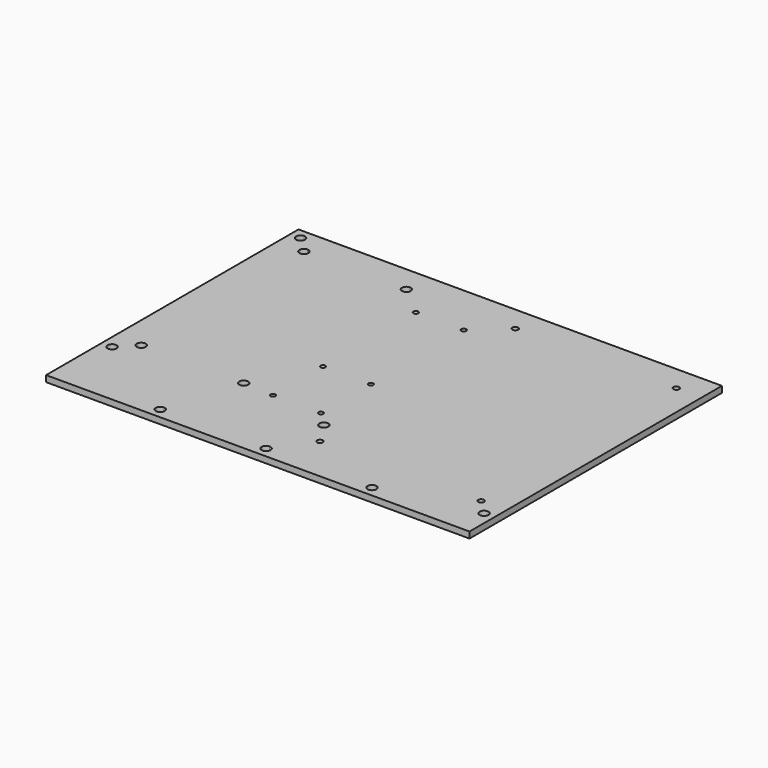
from build123d import *

# Parameters (mm, degrees)
F0_R     = 2.15
F0_W     = 45.05
F0_H     = 10
F0_W_2   = 15
F1_DEPTH = 3


with BuildPart() as f1:
    # F0 (on Top) → F1 (new body)
    with BuildSketch(Plane.XY):
        Polygon((-27.3440142274, -12.256315279), (-74.3440142274, -12.256315279), (-74.3440142274, -15.056315279), (-74.3440142274, -112.906315279), (-74.3440142274, -115.756315279), (-64.3440142274, -115.756315279), (-64.3440142274, -113.806315279), (-64.3440142274, -83.706315279), (-64.3440142274, -81.756315279), (-62.3940142274, -81.756315279), (-57.3440142274, -81.756315279), (-57.3440142274, -71.756315279), (-42.3440142274, -71.756315279), (-42.3440142274, -81.756315279), (-39.2940142274, -81.756315279), (-37.3440142274, -81.756315279), (-37.3440142274, -83.706315279), (-37.3440142274, -113.806315279), (-37.3440142274, -115.756315279), (-27.3440142274, -115.756315279), (-27.3440142274, -14.456315279), align=None)
        Polygon((-62.5940142274, -61.756315279), (-64.3440142274, -61.756315279), (-64.3440142274, -60.006315279), (-64.3440142274, -27.456315279), (-64.3440142274, -25.756315279), (-62.6440142274, -25.756315279), (-39.5440142274, -25.756315279), (-37.8440142274, -25.756315279), (-37.8440142274, -27.456315279), (-37.8440142274, -60.006315279), (-37.8440142274, -61.756315279), (-39.5940142274, -61.756315279), align=None, mode=Mode.SUBTRACT)
        with BuildLine():
            Line((-32.3440142274, -122.906315279), (-32.3440142274, -125.756315279))
            Line((-32.3440142274, -125.756315279), (-27.3440142274, -125.756315279))
            Line((-27.3440142274, -125.756315279), (-27.3440142274, -115.756315279))
            Line((-27.3440142274, -115.756315279), (-37.3440142274, -115.756315279))
            Line((-37.3440142274, -115.756315279), (-37.3440142274, -120.756315279))
            Line((-37.3440142274, -120.756315279), (-34.4940142274, -120.756315279))
            ThreePointArc((-34.4940142274, -120.756315279), (-32.3440142274, -118.606315279), (-30.1940142274, -120.756315279))
            ThreePointArc((-30.1940142274, -120.756315279), (-30.8237346478, -122.2765948586), (-32.3440142274, -122.906315279))
        make_face()
        Polygon((-126.5440142274, -115.756315279), (-129.3440142274, -115.756315279), (-129.3440142274, -125.756315279), (-37.3440142274, -125.756315279), (-37.3440142274, -120.756315279), (-37.3440142274, -115.756315279), (-39.2940142274, -115.756315279), (-62.3940142274, -115.756315279), (-64.3440142274, -115.756315279), (-74.3440142274, -115.756315279), (-77.1940142274, -115.756315279), align=None)
        with BuildLine():
            Line((-129.3440142274, -115.756315279), (-139.3440142274, -115.756315279))
            Line((-139.3440142274, -115.756315279), (-139.3440142274, -120.756315279))
            Line((-139.3440142274, -120.756315279), (-136.4940142274, -120.756315279))
            ThreePointArc((-136.4940142274, -120.756315279), (-134.3440142274, -118.606315279), (-132.1940142274, -120.756315279))
            ThreePointArc((-132.1940142274, -120.756315279), (-132.8237346478, -122.2765948586), (-134.3440142274, -122.906315279))
            Line((-134.3440142274, -122.906315279), (-134.3440142274, -125.756315279))
            Line((-134.3440142274, -125.756315279), (-129.3440142274, -125.756315279))
            Line((-129.3440142274, -125.756315279), (-129.3440142274, -115.756315279))
        make_face()
        Polygon((-129.3440142274, -12.256315279), (-139.3440142274, -12.256315279), (-139.3440142274, -115.756315279), (-129.3440142274, -115.756315279), (-129.3440142274, -112.956315279), (-129.3440142274, -15.056315279), align=None)
        with BuildLine():
            Line((-134.3440142274, -2.256315279), (-139.3440142274, -2.256315279))
            Line((-139.3440142274, -2.256315279), (-139.3440142274, -7.256315279))
            Line((-139.3440142274, -7.256315279), (-136.4940142274, -7.256315279))
            ThreePointArc((-136.4940142274, -7.256315279), (-135.8642938069, -5.7360356995), (-134.3440142274, -5.106315279))
            Line((-134.3440142274, -5.106315279), (-134.3440142274, -2.256315279))
        make_face()
        with BuildLine():
            Line((-129.3440142274, -2.256315279), (-134.3440142274, -2.256315279))
            Line((-134.3440142274, -2.256315279), (-134.3440142274, -5.106315279))
            ThreePointArc((-134.3440142274, -5.106315279), (-132.8237346478, -5.7360356995), (-132.1940142274, -7.256315279))
            ThreePointArc((-132.1940142274, -7.256315279), (-134.3440142274, -9.406315279), (-136.4940142274, -7.256315279))
            Line((-136.4940142274, -7.256315279), (-139.3440142274, -7.256315279))
            Line((-139.3440142274, -7.256315279), (-139.3440142274, -12.256315279))
            Line((-139.3440142274, -12.256315279), (-129.3440142274, -12.256315279))
            Line((-129.3440142274, -12.256315279), (-129.3440142274, -2.256315279))
        make_face()
        Polygon((-124.3940142274, -2.256315279), (-129.3440142274, -2.256315279), (-129.3440142274, -12.256315279), (-126.5440142274, -12.256315279), (-124.3940142274, -12.256315279), align=None)
        Polygon((-27.3440142274, -134.256315279), (-27.3440142274, -144.256315279), (13.6559857726, -144.256315279), (34.6559857726, -144.256315279), (34.6559857726, -134.256315279), (-25.1440142274, -134.256315279), align=None)
        with BuildLine():
            Line((64.6559857726, -2.256315279), (-79.3440142274, -2.256315279))
            Line((-79.3440142274, -2.256315279), (-79.3440142274, -12.256315279))
            Line((-79.3440142274, -12.256315279), (-77.1440142274, -12.256315279))
            Line((-77.1440142274, -12.256315279), (-74.3440142274, -12.256315279))
            Line((-74.3440142274, -12.256315279), (-27.3440142274, -12.256315279))
            Line((-27.3440142274, -12.256315279), (-25.1440142274, -12.256315279))
            Line((-25.1440142274, -12.256315279), (52.4559857726, -12.256315279))
            Line((52.4559857726, -12.256315279), (54.6559857726, -12.256315279))
            Line((54.6559857726, -12.256315279), (54.6559857726, -14.456315279))
            Line((54.6559857726, -14.456315279), (54.6559857726, -132.056315279))
            Line((54.6559857726, -132.056315279), (54.6559857726, -134.256315279))
            Line((54.6559857726, -134.256315279), (54.6559857726, -144.256315279))
            Line((54.6559857726, -144.256315279), (59.6559857726, -144.256315279))
            Line((59.6559857726, -144.256315279), (59.6559857726, -141.406315279))
            ThreePointArc((59.6559857726, -141.406315279), (58.1357061931, -137.7360356995), (61.8059857726, -139.256315279))
            Line((61.8059857726, -139.256315279), (64.6559857726, -139.256315279))
            Line((64.6559857726, -139.256315279), (64.6559857726, -2.256315279))
        make_face()
        with BuildLine():
            Line((64.6559857726, -2.256315279), (-79.3440142274, -2.256315279))
            Line((-79.3440142274, -2.256315279), (-79.3440142274, -12.256315279))
            Line((-79.3440142274, -12.256315279), (-77.1440142274, -12.256315279))
            Line((-77.1440142274, -12.256315279), (-74.3440142274, -12.256315279))
            Line((-74.3440142274, -12.256315279), (-27.3440142274, -12.256315279))
            Line((-27.3440142274, -12.256315279), (-25.1440142274, -12.256315279))
            Line((-25.1440142274, -12.256315279), (52.4559857726, -12.256315279))
            Line((52.4559857726, -12.256315279), (54.6559857726, -12.256315279))
            Line((54.6559857726, -12.256315279), (54.6559857726, -14.456315279))
            Line((54.6559857726, -14.456315279), (54.6559857726, -132.056315279))
            Line((54.6559857726, -132.056315279), (54.6559857726, -134.256315279))
            Line((54.6559857726, -134.256315279), (54.6559857726, -144.256315279))
            Line((54.6559857726, -144.256315279), (59.6559857726, -144.256315279))
            Line((59.6559857726, -144.256315279), (59.6559857726, -141.406315279))
            ThreePointArc((59.6559857726, -141.406315279), (58.1357061931, -137.7360356995), (61.8059857726, -139.256315279))
            Line((61.8059857726, -139.256315279), (64.6559857726, -139.256315279))
            Line((64.6559857726, -139.256315279), (64.6559857726, -2.256315279))
        make_face()
        Polygon((-88.3440142274, -144.256315279), (-139.3440142274, -144.256315279), (-139.3440142274, -149.256315279), (-139.3440142274, -154.256315279), (64.6559857726, -154.256315279), (64.6559857726, -144.256315279), (59.6559857726, -144.256315279), (54.6559857726, -144.256315279), (34.6559857726, -144.256315279), (13.6559857726, -144.256315279), (-27.3440142274, -144.256315279), (-37.3440142274, -144.256315279), align=None)
        with BuildLine():
            ThreePointArc((-86.1940142274, -149.256315279), (-89.8642938069, -150.7765948586), (-88.3440142274, -147.106315279))
            ThreePointArc((-88.3440142274, -147.106315279), (-86.8237346478, -147.7360356995), (-86.1940142274, -149.256315279))
        make_face(mode=Mode.SUBTRACT)
        with BuildLine():
            ThreePointArc((-35.1940142274, -149.256315279), (-38.8642938069, -150.7765948586), (-37.3440142274, -147.106315279))
            ThreePointArc((-37.3440142274, -147.106315279), (-35.8237346478, -147.7360356995), (-35.1940142274, -149.256315279))
        make_face(mode=Mode.SUBTRACT)
        with Locations((13.6559857726, -149.256315279)):
            Circle(F0_R, mode=Mode.SUBTRACT)
        with BuildLine():
            Line((-79.3440142274, -12.256315279), (-124.3940142274, -12.256315279))
            Line((-124.3940142274, -12.256315279), (-126.5440142274, -12.256315279))
            Line((-126.5440142274, -12.256315279), (-126.5440142274, -12.906315279))
            ThreePointArc((-126.5440142274, -12.906315279), (-125.0237346478, -13.5360356995), (-124.3940142274, -15.056315279))
            ThreePointArc((-124.3940142274, -15.056315279), (-126.5440142274, -17.206315279), (-128.6940142274, -15.056315279))
            Line((-128.6940142274, -15.056315279), (-129.3440142274, -15.056315279))
            Line((-129.3440142274, -15.056315279), (-129.3440142274, -112.956315279))
            Line((-129.3440142274, -112.956315279), (-128.6940142274, -112.956315279))
            ThreePointArc((-128.6940142274, -112.956315279), (-126.5440142274, -110.806315279), (-124.3940142274, -112.956315279))
            ThreePointArc((-124.3940142274, -112.956315279), (-125.0237346478, -114.4765948586), (-126.5440142274, -115.106315279))
            Line((-126.5440142274, -115.106315279), (-126.5440142274, -115.756315279))
            Line((-126.5440142274, -115.756315279), (-77.1940142274, -115.756315279))
            Line((-77.1940142274, -115.756315279), (-77.1940142274, -115.056315279))
            ThreePointArc((-77.1940142274, -115.056315279), (-78.7142938069, -111.3860356995), (-75.0440142274, -112.906315279))
            Line((-75.0440142274, -112.906315279), (-74.3440142274, -112.906315279))
            Line((-74.3440142274, -112.906315279), (-74.3440142274, -15.056315279))
            Line((-74.3440142274, -15.056315279), (-74.9940142274, -15.056315279))
            ThreePointArc((-74.9940142274, -15.056315279), (-78.6642938069, -16.5765948586), (-77.1440142274, -12.906315279))
            Line((-77.1440142274, -12.906315279), (-77.1440142274, -12.256315279))
            Line((-77.1440142274, -12.256315279), (-79.3440142274, -12.256315279))
        make_face()
        with Locations((-101.8690142274, -7.256315279)):
            Rectangle(F0_W, F0_H)
        with BuildLine():
            Line((-62.3940142274, -114.956315279), (-62.3940142274, -115.756315279))
            Line((-62.3940142274, -115.756315279), (-39.2940142274, -115.756315279))
            Line((-39.2940142274, -115.756315279), (-39.2940142274, -114.956315279))
            ThreePointArc((-39.2940142274, -114.956315279), (-40.1071870258, -112.9931424806), (-38.1440142274, -113.806315279))
            Line((-38.1440142274, -113.806315279), (-37.3440142274, -113.806315279))
            Line((-37.3440142274, -113.806315279), (-37.3440142274, -83.706315279))
            Line((-37.3440142274, -83.706315279), (-38.1440142274, -83.706315279))
            ThreePointArc((-38.1440142274, -83.706315279), (-40.1071870258, -84.5194880774), (-39.2940142274, -82.556315279))
            Line((-39.2940142274, -82.556315279), (-39.2940142274, -81.756315279))
            Line((-39.2940142274, -81.756315279), (-42.3440142274, -81.756315279))
            Line((-42.3440142274, -81.756315279), (-57.3440142274, -81.756315279))
            Line((-57.3440142274, -81.756315279), (-62.3940142274, -81.756315279))
            Line((-62.3940142274, -81.756315279), (-62.3940142274, -82.556315279))
            ThreePointArc((-62.3940142274, -82.556315279), (-61.580841429, -82.8931424806), (-61.2440142274, -83.706315279))
            ThreePointArc((-61.2440142274, -83.706315279), (-62.3940142274, -84.856315279), (-63.5440142274, -83.706315279))
            Line((-63.5440142274, -83.706315279), (-64.3440142274, -83.706315279))
            Line((-64.3440142274, -83.706315279), (-64.3440142274, -113.806315279))
            Line((-64.3440142274, -113.806315279), (-63.5440142274, -113.806315279))
            ThreePointArc((-63.5440142274, -113.806315279), (-62.3940142274, -112.656315279), (-61.2440142274, -113.806315279))
            ThreePointArc((-61.2440142274, -113.806315279), (-61.580841429, -114.6194880774), (-62.3940142274, -114.956315279))
        make_face()
        with BuildLine():
            Line((-64.3440142274, -60.006315279), (-64.3440142274, -61.756315279))
            Line((-64.3440142274, -61.756315279), (-62.5940142274, -61.756315279))
            Line((-62.5940142274, -61.756315279), (-39.5940142274, -61.756315279))
            Line((-39.5940142274, -61.756315279), (-37.8440142274, -61.756315279))
            Line((-37.8440142274, -61.756315279), (-37.8440142274, -60.006315279))
            Line((-37.8440142274, -60.006315279), (-37.8440142274, -27.456315279))
            Line((-37.8440142274, -27.456315279), (-38.3440142274, -27.456315279))
            ThreePointArc((-38.3440142274, -27.456315279), (-40.3925423648, -28.3048434164), (-39.5440142274, -26.256315279))
            Line((-39.5440142274, -26.256315279), (-39.5440142274, -25.756315279))
            Line((-39.5440142274, -25.756315279), (-62.6440142274, -25.756315279))
            Line((-62.6440142274, -25.756315279), (-62.6440142274, -26.256315279))
            ThreePointArc((-62.6440142274, -26.256315279), (-61.79548609, -26.6077871416), (-61.4440142274, -27.456315279))
            ThreePointArc((-61.4440142274, -27.456315279), (-62.6440142274, -28.656315279), (-63.8440142274, -27.456315279))
            Line((-63.8440142274, -27.456315279), (-64.3440142274, -27.456315279))
            Line((-64.3440142274, -27.456315279), (-64.3440142274, -60.006315279))
        make_face()
        Polygon((34.6559857726, -144.256315279), (54.6559857726, -144.256315279), (54.6559857726, -134.256315279), (52.4559857726, -134.256315279), (34.6559857726, -134.256315279), align=None)
        Polygon((-27.3440142274, -134.256315279), (-27.3440142274, -144.256315279), (13.6559857726, -144.256315279), (34.6559857726, -144.256315279), (34.6559857726, -134.256315279), (-25.1440142274, -134.256315279), align=None)
        Polygon((34.6559857726, -144.256315279), (54.6559857726, -144.256315279), (54.6559857726, -134.256315279), (52.4559857726, -134.256315279), (34.6559857726, -134.256315279), align=None)
        with BuildLine():
            Line((-129.3440142274, -112.956315279), (-129.3440142274, -115.756315279))
            Line((-129.3440142274, -115.756315279), (-126.5440142274, -115.756315279))
            Line((-126.5440142274, -115.756315279), (-126.5440142274, -115.106315279))
            ThreePointArc((-126.5440142274, -115.106315279), (-128.0642938069, -114.4765948586), (-128.6940142274, -112.956315279))
            Line((-128.6940142274, -112.956315279), (-129.3440142274, -112.956315279))
        make_face()
        with BuildLine():
            Line((-64.3440142274, -113.806315279), (-64.3440142274, -115.756315279))
            Line((-64.3440142274, -115.756315279), (-62.3940142274, -115.756315279))
            Line((-62.3940142274, -115.756315279), (-62.3940142274, -114.956315279))
            ThreePointArc((-62.3940142274, -114.956315279), (-63.2071870258, -114.6194880774), (-63.5440142274, -113.806315279))
            Line((-63.5440142274, -113.806315279), (-64.3440142274, -113.806315279))
        make_face()
        with BuildLine():
            Line((-77.1940142274, -115.056315279), (-77.1940142274, -115.756315279))
            Line((-77.1940142274, -115.756315279), (-74.3440142274, -115.756315279))
            Line((-74.3440142274, -115.756315279), (-74.3440142274, -112.906315279))
            Line((-74.3440142274, -112.906315279), (-75.0440142274, -112.906315279))
            ThreePointArc((-75.0440142274, -112.906315279), (-75.6737346478, -114.4265948586), (-77.1940142274, -115.056315279))
        make_face()
        with Locations((-49.8440142274, -76.756315279)):
            Rectangle(F0_W_2, F0_H)
        with BuildLine():
            Line((-64.3440142274, -81.756315279), (-64.3440142274, -83.706315279))
            Line((-64.3440142274, -83.706315279), (-63.5440142274, -83.706315279))
            ThreePointArc((-63.5440142274, -83.706315279), (-63.2071870258, -82.8931424806), (-62.3940142274, -82.556315279))
            Line((-62.3940142274, -82.556315279), (-62.3940142274, -81.756315279))
            Line((-62.3940142274, -81.756315279), (-64.3440142274, -81.756315279))
        make_face()
        with BuildLine():
            Line((-38.1440142274, -83.706315279), (-37.3440142274, -83.706315279))
            Line((-37.3440142274, -83.706315279), (-37.3440142274, -81.756315279))
            Line((-37.3440142274, -81.756315279), (-39.2940142274, -81.756315279))
            Line((-39.2940142274, -81.756315279), (-39.2940142274, -82.556315279))
            ThreePointArc((-39.2940142274, -82.556315279), (-38.480841429, -82.8931424806), (-38.1440142274, -83.706315279))
        make_face()
        with BuildLine():
            Line((-39.2940142274, -115.756315279), (-37.3440142274, -115.756315279))
            Line((-37.3440142274, -115.756315279), (-37.3440142274, -113.806315279))
            Line((-37.3440142274, -113.806315279), (-38.1440142274, -113.806315279))
            ThreePointArc((-38.1440142274, -113.806315279), (-38.480841429, -114.6194880774), (-39.2940142274, -114.956315279))
            Line((-39.2940142274, -114.956315279), (-39.2940142274, -115.756315279))
        make_face()
        with BuildLine():
            Line((-74.3440142274, -12.256315279), (-77.1440142274, -12.256315279))
            Line((-77.1440142274, -12.256315279), (-77.1440142274, -12.906315279))
            ThreePointArc((-77.1440142274, -12.906315279), (-75.6237346478, -13.5360356995), (-74.9940142274, -15.056315279))
            Line((-74.9940142274, -15.056315279), (-74.3440142274, -15.056315279))
            Line((-74.3440142274, -15.056315279), (-74.3440142274, -12.256315279))
        make_face()
        with BuildLine():
            Line((-126.5440142274, -12.256315279), (-129.3440142274, -12.256315279))
            Line((-129.3440142274, -12.256315279), (-129.3440142274, -15.056315279))
            Line((-129.3440142274, -15.056315279), (-128.6940142274, -15.056315279))
            ThreePointArc((-128.6940142274, -15.056315279), (-128.0642938069, -13.5360356995), (-126.5440142274, -12.906315279))
            Line((-126.5440142274, -12.906315279), (-126.5440142274, -12.256315279))
        make_face()
        with BuildLine():
            Line((-64.3440142274, -25.756315279), (-64.3440142274, -27.456315279))
            Line((-64.3440142274, -27.456315279), (-63.8440142274, -27.456315279))
            ThreePointArc((-63.8440142274, -27.456315279), (-63.4925423648, -26.6077871416), (-62.6440142274, -26.256315279))
            Line((-62.6440142274, -26.256315279), (-62.6440142274, -25.756315279))
            Line((-62.6440142274, -25.756315279), (-64.3440142274, -25.756315279))
        make_face()
        with BuildLine():
            Line((-38.3440142274, -27.456315279), (-37.8440142274, -27.456315279))
            Line((-37.8440142274, -27.456315279), (-37.8440142274, -25.756315279))
            Line((-37.8440142274, -25.756315279), (-39.5440142274, -25.756315279))
            Line((-39.5440142274, -25.756315279), (-39.5440142274, -26.256315279))
            ThreePointArc((-39.5440142274, -26.256315279), (-38.69548609, -26.6077871416), (-38.3440142274, -27.456315279))
        make_face()
        with BuildLine():
            Line((54.6559857726, -12.256315279), (52.4559857726, -12.256315279))
            Line((52.4559857726, -12.256315279), (52.4559857726, -13.056315279))
            ThreePointArc((52.4559857726, -13.056315279), (53.4459352663, -13.4663657853), (53.8559857726, -14.456315279))
            Line((53.8559857726, -14.456315279), (54.6559857726, -14.456315279))
            Line((54.6559857726, -14.456315279), (54.6559857726, -12.256315279))
        make_face()
        with BuildLine():
            Line((-25.1440142274, -12.256315279), (-27.3440142274, -12.256315279))
            Line((-27.3440142274, -12.256315279), (-27.3440142274, -14.456315279))
            Line((-27.3440142274, -14.456315279), (-26.5440142274, -14.456315279))
            ThreePointArc((-26.5440142274, -14.456315279), (-26.1339637211, -13.4663657853), (-25.1440142274, -13.056315279))
            Line((-25.1440142274, -13.056315279), (-25.1440142274, -12.256315279))
        make_face()
        with BuildLine():
            Line((-26.5440142274, -132.056315279), (-27.3440142274, -132.056315279))
            Line((-27.3440142274, -132.056315279), (-27.3440142274, -134.256315279))
            Line((-27.3440142274, -134.256315279), (-25.1440142274, -134.256315279))
            Line((-25.1440142274, -134.256315279), (-25.1440142274, -133.456315279))
            ThreePointArc((-25.1440142274, -133.456315279), (-26.1339637211, -133.0462647727), (-26.5440142274, -132.056315279))
        make_face()
        with BuildLine():
            Line((52.4559857726, -134.256315279), (54.6559857726, -134.256315279))
            Line((54.6559857726, -134.256315279), (54.6559857726, -132.056315279))
            Line((54.6559857726, -132.056315279), (53.8559857726, -132.056315279))
            ThreePointArc((53.8559857726, -132.056315279), (53.4459352663, -133.0462647727), (52.4559857726, -133.456315279))
            Line((52.4559857726, -133.456315279), (52.4559857726, -134.256315279))
        make_face()
        Polygon((-134.3440142274, -125.756315279), (-139.3440142274, -125.756315279), (-139.3440142274, -144.256315279), (-88.3440142274, -144.256315279), (-37.3440142274, -144.256315279), (-37.3440142274, -125.756315279), (-129.3440142274, -125.756315279), align=None)
        Polygon((34.6559857726, -144.256315279), (54.6559857726, -144.256315279), (54.6559857726, -134.256315279), (52.4559857726, -134.256315279), (34.6559857726, -134.256315279), align=None)
        Polygon((-88.3440142274, -144.256315279), (-139.3440142274, -144.256315279), (-139.3440142274, -149.256315279), (-139.3440142274, -154.256315279), (64.6559857726, -154.256315279), (64.6559857726, -144.256315279), (59.6559857726, -144.256315279), (54.6559857726, -144.256315279), (34.6559857726, -144.256315279), (13.6559857726, -144.256315279), (-27.3440142274, -144.256315279), (-37.3440142274, -144.256315279), align=None)
        with BuildLine():
            ThreePointArc((-86.1940142274, -149.256315279), (-89.8642938069, -150.7765948586), (-88.3440142274, -147.106315279))
            ThreePointArc((-88.3440142274, -147.106315279), (-86.8237346478, -147.7360356995), (-86.1940142274, -149.256315279))
        make_face(mode=Mode.SUBTRACT)
        with BuildLine():
            ThreePointArc((-35.1940142274, -149.256315279), (-38.8642938069, -150.7765948586), (-37.3440142274, -147.106315279))
            ThreePointArc((-37.3440142274, -147.106315279), (-35.8237346478, -147.7360356995), (-35.1940142274, -149.256315279))
        make_face(mode=Mode.SUBTRACT)
        with Locations((13.6559857726, -149.256315279)):
            Circle(F0_R, mode=Mode.SUBTRACT)
        Polygon((-32.3440142274, -125.756315279), (-37.3440142274, -125.756315279), (-37.3440142274, -144.256315279), (-27.3440142274, -144.256315279), (-27.3440142274, -134.256315279), (-27.3440142274, -132.056315279), (-27.3440142274, -125.756315279), align=None)
        with BuildLine():
            Line((-27.3440142274, -115.756315279), (-27.3440142274, -125.756315279))
            Line((-27.3440142274, -125.756315279), (-27.3440142274, -132.056315279))
            Line((-27.3440142274, -132.056315279), (-26.5440142274, -132.056315279))
            ThreePointArc((-26.5440142274, -132.056315279), (-25.1440142274, -130.656315279), (-23.7440142274, -132.056315279))
            ThreePointArc((-23.7440142274, -132.056315279), (-24.1540647337, -133.0462647727), (-25.1440142274, -133.456315279))
            Line((-25.1440142274, -133.456315279), (-25.1440142274, -134.256315279))
            Line((-25.1440142274, -134.256315279), (34.6559857726, -134.256315279))
            Line((34.6559857726, -134.256315279), (52.4559857726, -134.256315279))
            Line((52.4559857726, -134.256315279), (52.4559857726, -133.456315279))
            ThreePointArc((52.4559857726, -133.456315279), (51.4660362789, -131.0663657853), (53.8559857726, -132.056315279))
            Line((53.8559857726, -132.056315279), (54.6559857726, -132.056315279))
            Line((54.6559857726, -132.056315279), (54.6559857726, -14.456315279))
            Line((54.6559857726, -14.456315279), (53.8559857726, -14.456315279))
            ThreePointArc((53.8559857726, -14.456315279), (51.4660362789, -15.4462647727), (52.4559857726, -13.056315279))
            Line((52.4559857726, -13.056315279), (52.4559857726, -12.256315279))
            Line((52.4559857726, -12.256315279), (-25.1440142274, -12.256315279))
            Line((-25.1440142274, -12.256315279), (-25.1440142274, -13.056315279))
            ThreePointArc((-25.1440142274, -13.056315279), (-24.1540647337, -13.4663657853), (-23.7440142274, -14.456315279))
            ThreePointArc((-23.7440142274, -14.456315279), (-25.1440142274, -15.856315279), (-26.5440142274, -14.456315279))
            Line((-26.5440142274, -14.456315279), (-27.3440142274, -14.456315279))
            Line((-27.3440142274, -14.456315279), (-27.3440142274, -115.756315279))
        make_face()
        with BuildLine():
            Line((-136.4940142274, -120.756315279), (-139.3440142274, -120.756315279))
            Line((-139.3440142274, -120.756315279), (-139.3440142274, -125.756315279))
            Line((-139.3440142274, -125.756315279), (-134.3440142274, -125.756315279))
            Line((-134.3440142274, -125.756315279), (-134.3440142274, -122.906315279))
            ThreePointArc((-134.3440142274, -122.906315279), (-135.8642938069, -122.2765948586), (-136.4940142274, -120.756315279))
        make_face()
        with BuildLine():
            Line((-37.3440142274, -120.756315279), (-37.3440142274, -125.756315279))
            Line((-37.3440142274, -125.756315279), (-32.3440142274, -125.756315279))
            Line((-32.3440142274, -125.756315279), (-32.3440142274, -122.906315279))
            ThreePointArc((-32.3440142274, -122.906315279), (-33.8642938069, -122.2765948586), (-34.4940142274, -120.756315279))
            Line((-34.4940142274, -120.756315279), (-37.3440142274, -120.756315279))
        make_face()
        with BuildLine():
            Line((64.6559857726, -144.256315279), (64.6559857726, -139.256315279))
            Line((64.6559857726, -139.256315279), (61.8059857726, -139.256315279))
            ThreePointArc((61.8059857726, -139.256315279), (61.1762653522, -140.7765948586), (59.6559857726, -141.406315279))
            Line((59.6559857726, -141.406315279), (59.6559857726, -144.256315279))
            Line((59.6559857726, -144.256315279), (64.6559857726, -144.256315279))
        make_face()
        with BuildLine():
            Line((-134.3440142274, -2.256315279), (-139.3440142274, -2.256315279))
            Line((-139.3440142274, -2.256315279), (-139.3440142274, -7.256315279))
            Line((-139.3440142274, -7.256315279), (-136.4940142274, -7.256315279))
            ThreePointArc((-136.4940142274, -7.256315279), (-135.8642938069, -5.7360356995), (-134.3440142274, -5.106315279))
            Line((-134.3440142274, -5.106315279), (-134.3440142274, -2.256315279))
        make_face()
    extrude(amount=F1_DEPTH)


solid = f1.part
